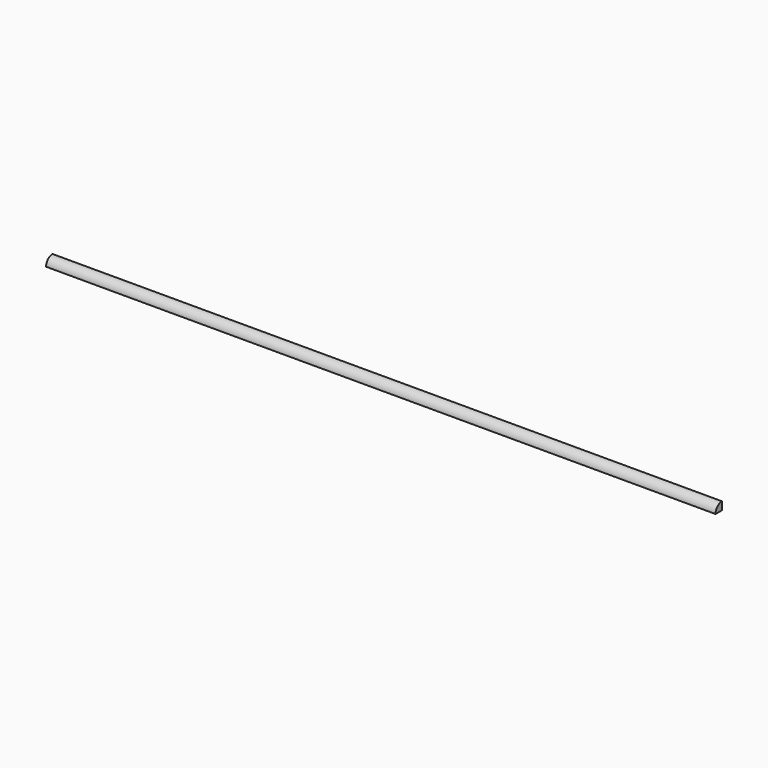
from build123d import *

# Parameters (mm, degrees)
F1_ANGLE = 90


with BuildPart() as f1:
    # F0 (on Front) → F1 (revolve)
    with BuildSketch(Plane.XZ):
        Polygon((3000, 35.9), (0, 35.9), (0, 24.079584), (0, 0), (3000, 0), align=None)
    revolve(axis=Axis((1500, 0, 0), (1, 0, 0)), revolution_arc=F1_ANGLE)


solid = f1.part
